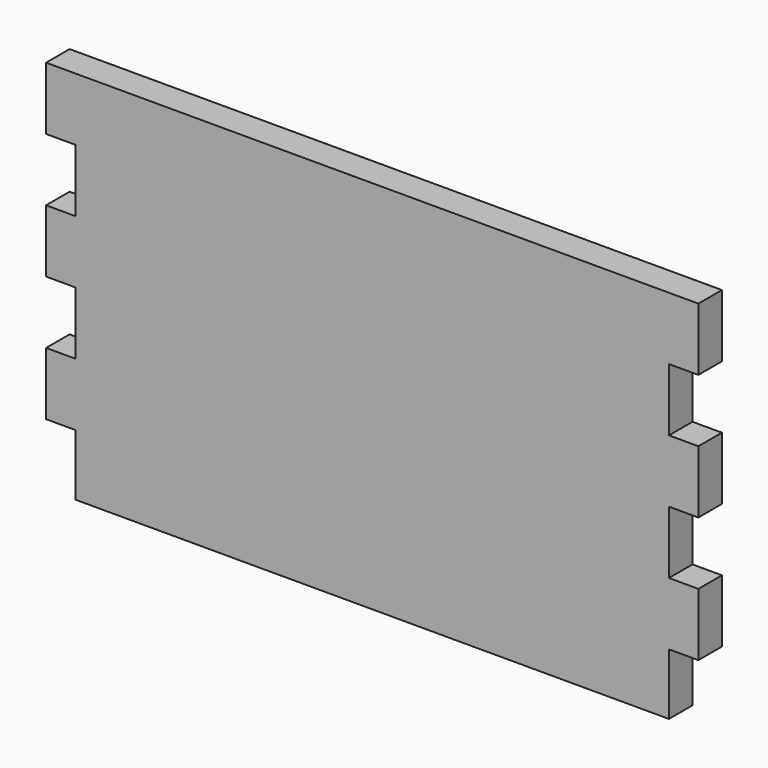
from build123d import *

# Parameters (mm, degrees)
F1_DEPTH = 19.05


with BuildPart() as f1:
    # F0 (on Front) → F1 (new body)
    with BuildSketch(Plane.XZ):
        Polygon((-193.158364, 104.478267), (-193.158364, 63.838267), (-174.108364, 63.838267), (-174.108364, 23.198267), (-193.158364, 23.198267), (-193.158364, -17.441733), (-174.108364, -17.441733), (-174.108364, -58.081733), (-193.158364, -58.081733), (-193.158364, -98.721733), (-174.108364, -98.721733), (-174.108364, -138.409233), (17.979136, -138.409233), (210.066636, -138.409233), (210.066636, -98.721733), (229.116636, -98.721733), (229.116636, -58.081733), (210.066636, -58.081733), (210.066636, -17.441733), (229.116636, -17.441733), (229.116636, 23.198267), (210.066636, 23.198267), (210.066636, 63.838267), (229.116636, 63.838267), (229.116636, 104.478267), (17.979136, 104.478267), align=None)
    extrude(amount=F1_DEPTH)


solid = f1.part
